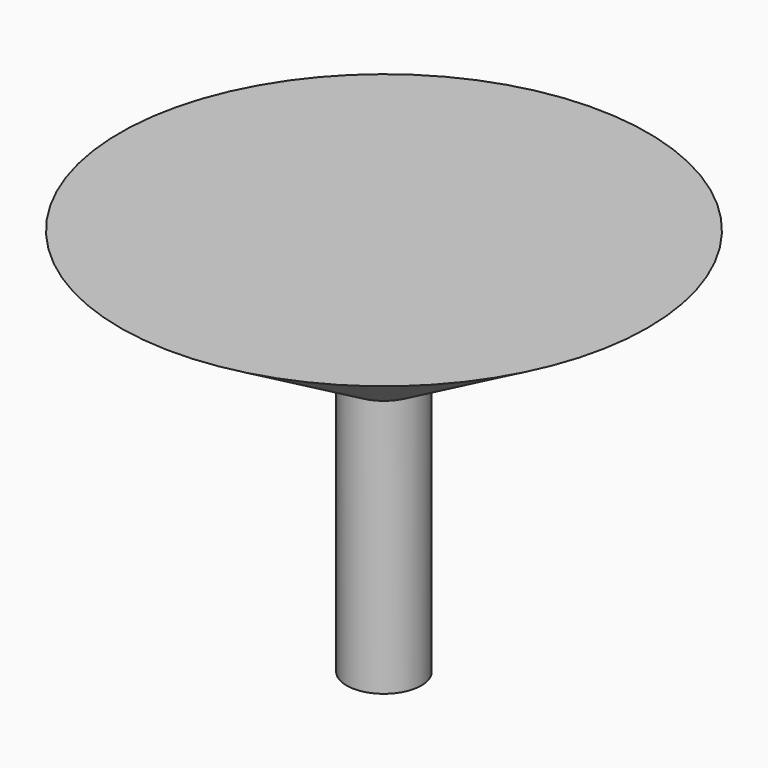
from build123d import *

# Parameters (mm, degrees)
SKETCH_W       = 12
SKETCH_H       = 17.5
PAD_DEPTH      = 1.5
PAD_DEPTH_BACK = 10
SKETCH001_R    = 0.75
PAD001_DEPTH   = 10
PAD002_DEPTH   = 5
FILLET_R       = 1
FILLET001_R    = 1
FILLET002_R    = 1
SKETCH003_W    = 5.5
SKETCH003_H    = 7
PAD003_DEPTH   = 1.8
SKETCH004_R    = 2
PAD004_DEPTH   = 0.5
SKETCH005_R    = 2
PAD005_DEPTH   = 7
PAD005_TAPER   = -60


with BuildPart() as part:
    # Sketch → Pad (new body, two sides)
    with BuildSketch(Plane.XY) as pad_sk:
        Rectangle(SKETCH_W, SKETCH_H)
    extrude(amount=PAD_DEPTH)
    extrude(pad_sk.sketch, amount=-PAD_DEPTH_BACK)

    # Sketch001 → Pad001 (join)
    with BuildSketch(Plane.XY):
        with Locations((-3.25, 6)):
            Circle(SKETCH001_R)
        with Locations((-3.25, -6)):
            Circle(SKETCH001_R)
    extrude(amount=PAD001_DEPTH)

    # Sketch002 → Pad002 (join, symmetric)
    with BuildSketch(Plane.XZ):
        with BuildLine():
            ThreePointArc((16, -10), (13.071068, -2.928932), (6, 0))
            Line((6, -10), (6, 0))
            Line((16, -10), (6, -10))
        make_face()
    extrude(amount=PAD002_DEPTH, both=True)

    # Fillet
    fillet_edges = [part.edges().sort_by_distance(p)[0] for p in [
        (6, -8.75, -4.25),
        (-6, -8.75, -4.25),
        (6, 8.75, -4.25),
        (-6, 8.75, -4.25),
    ]]
    fillet(fillet_edges, radius=FILLET_R)

    # Fillet001
    fillet001_edges = [part.edges().sort_by_distance(p)[0] for p in [
        (13.071068, -5, -2.928932),
        (13.071068, 5, -2.928932),
    ]]
    fillet(fillet001_edges, radius=FILLET001_R)

    # Fillet002
    fillet002_edges = [part.edges().sort_by_distance(p)[0] for p in [
        (6, -5, -5.5),
    ]]
    fillet(fillet002_edges, radius=FILLET002_R)

    # Sketch003 (on Face6 of Fillet002) → Pad003 (join)
    with BuildSketch(Plane.XY.offset(1.5)):
        with Locations((-3.25, 0)):
            Rectangle(SKETCH003_W, SKETCH003_H)
    extrude(amount=PAD003_DEPTH)

    # Sketch004 (on Face28 of Pad003) → Pad004 (join)
    with BuildSketch(Plane.XY.offset(3.3)):
        with Locations((-3.25, -0.25)):
            Circle(SKETCH004_R)
    extrude(amount=PAD004_DEPTH)

    # Sketch005 (on Face32 of Pad004) → Pad005 (join)
    with BuildSketch(Plane.XY.offset(3.8)):
        with Locations((-3.25, -0.25)):
            Circle(SKETCH005_R)
    extrude(amount=PAD005_DEPTH, taper=PAD005_TAPER)

    # Sketch006 (on DatumPlane) → Groove (revolve, cut)
    with BuildSketch(Plane(origin=(-3.25, -0.25, 3.8), x_dir=(1, 0, 0), z_dir=(0, -1, 0))):
        Polygon((2, 0), (2, -18), (30, -18), (30, 7), (14.124356, 7), align=None)
    revolve(axis=Axis((-3.25, -0.25, 3.8), (0, 0, 1)), mode=Mode.SUBTRACT)


solid = part.part
